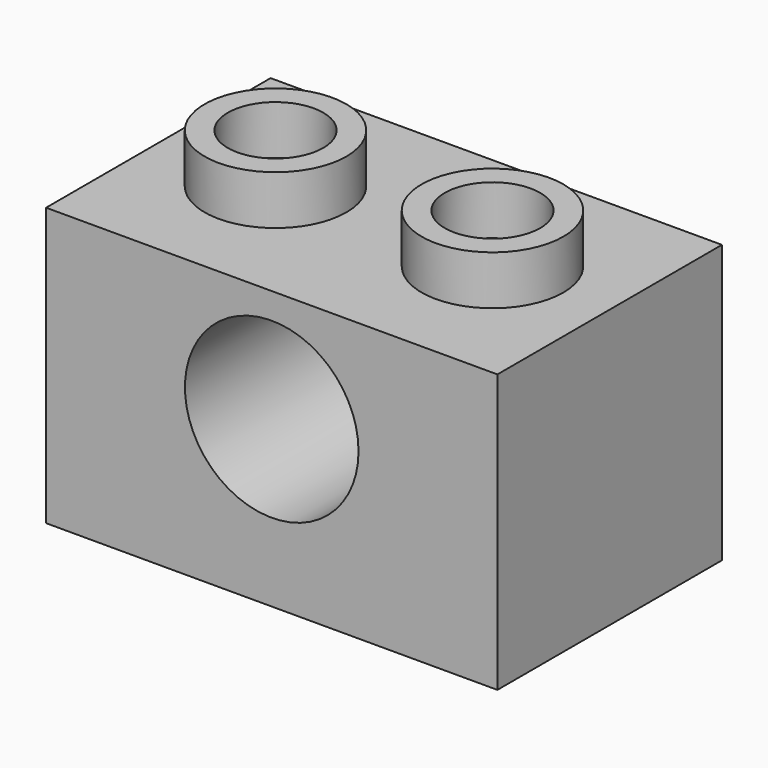
from build123d import *

# Parameters (mm, degrees)
F1_START = 10
F0_W     = 15.6
F0_H     = 9.6
F0_R     = 3
F1_DEPTH = 9.7
F2_R     = 2.45
F2_R_2   = 1.65
F3_DEPTH = 1.7
F5_DEPTH = 2
F0_R_2   = 2.3
F6_DEPTH = 0.8
F7_R     = 3
F7_R_2   = 2.3
F8_DEPTH = 0.8


with BuildPart() as f1:
    # F0 (on Front) → F1 (new body)
    with BuildSketch(Plane.XZ.offset(F1_START)):
        with Locations((-5.3637987003, 2.2607615549)):
            Rectangle(F0_W, F0_H)
        with Locations((-5.3637987003, 3.1607615549)):
            Circle(F0_R, mode=Mode.SUBTRACT)
    extrude(amount=F1_DEPTH)

    # F2 (on face) → F3 (join)
    with BuildSketch(Plane.XY.offset(7.0607615549)):
        with Locations((-1.6137987003, -14.85)):
            Circle(F2_R)
        with Locations((-1.6137987003, -14.85)):
            Circle(F2_R_2, mode=Mode.SUBTRACT)
        with Locations((-9.1137987003, -14.85)):
            Circle(F2_R)
        with Locations((-9.1137987003, -14.85)):
            Circle(F2_R_2, mode=Mode.SUBTRACT)
    extrude(amount=F3_DEPTH)

    # F4 (on face) → F5 (cut)
    with BuildSketch(Plane(origin=(0, 0, -2.5392384451), x_dir=(1, 0, 0), z_dir=(0, 0, -1))):
        Polygon((-11.5637987003, 18.1), (-11.5637987003, 14.85), (-11.5637987003, 11.6), (-5.3637987003, 11.6), (0.8362012997, 11.6), (0.8362012997, 14.85), (0.8362012997, 18.1), (-5.3637987003, 18.1), align=None)
    extrude(amount=-F5_DEPTH, mode=Mode.SUBTRACT)

    # F0 (on Front) → F6 (cut)
    with BuildSketch(Plane.XZ):
        with Locations((-5.3637987003, 3.1607615549)):
            Circle(F0_R)
        with Locations((-5.3637987003, 3.1607615549)):
            Circle(F0_R_2, mode=Mode.SUBTRACT)
    extrude(amount=F6_DEPTH, mode=Mode.SUBTRACT)

    # F7 (on face) → F8 (cut)
    with BuildSketch(Plane.XZ.offset(19.7)):
        with Locations((-5.3637987003, 3.1607615549)):
            Circle(F7_R)
        with Locations((-5.3637987003, 3.1607615549)):
            Circle(F7_R_2, mode=Mode.SUBTRACT)
    extrude(amount=-F8_DEPTH, mode=Mode.SUBTRACT)


solid = f1.part
